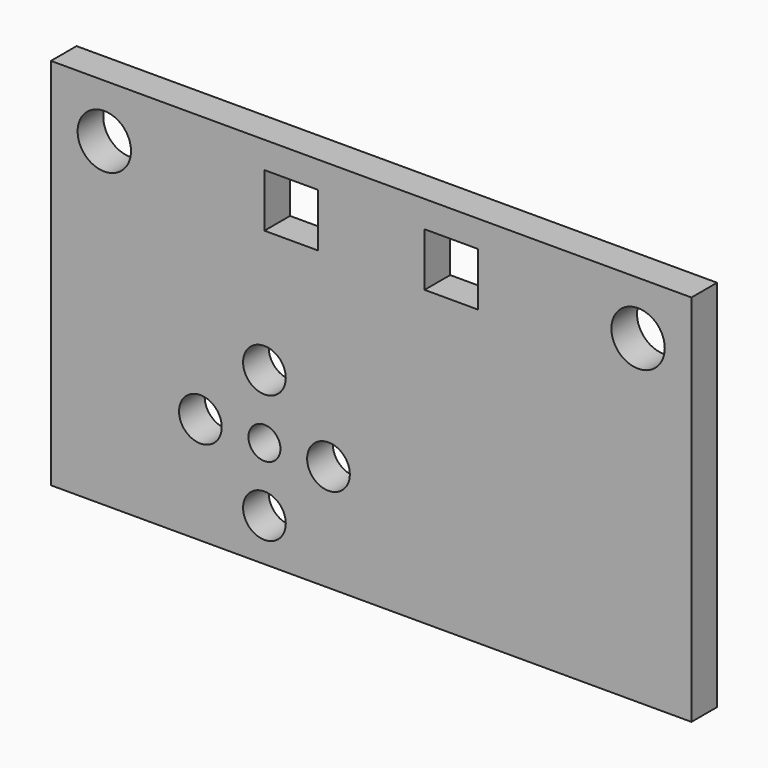
from build123d import *

# Parameters (mm, degrees)
SKETCH_W      = 60
SKETCH_H      = 3
PAD_DEPTH     = 35
SKETCH001_R   = 1.5
SKETCH001_R_2 = 2
SKETCH001_R_3 = 2.5
SKETCH001_W   = 5
SKETCH001_H   = 5
POCKET_DEPTH  = 3


with BuildPart() as part:
    # Sketch → Pad (new body)
    with BuildSketch(Plane.XY):
        with Locations((30, 1.5)):
            Rectangle(SKETCH_W, SKETCH_H)
    extrude(amount=PAD_DEPTH)

    # Sketch001 → Pocket (cut)
    with BuildSketch(Plane.XZ):
        with Locations((20, 10)):
            Circle(SKETCH001_R)
        with Locations((26, 10)):
            Circle(SKETCH001_R_2)
        with Locations((20, 16)):
            Circle(SKETCH001_R_2)
        with Locations((14, 10)):
            Circle(SKETCH001_R_2)
        with Locations((20, 4)):
            Circle(SKETCH001_R_2)
        with Locations((5, 30)):
            Circle(SKETCH001_R_3)
        with Locations((55, 30)):
            Circle(SKETCH001_R_3)
        with Locations((22.5, 30)):
            Rectangle(SKETCH001_W, SKETCH001_H)
        with Locations((37.5, 30)):
            Rectangle(SKETCH001_W, SKETCH001_H)
    extrude(amount=-POCKET_DEPTH, mode=Mode.SUBTRACT)


solid = part.part
